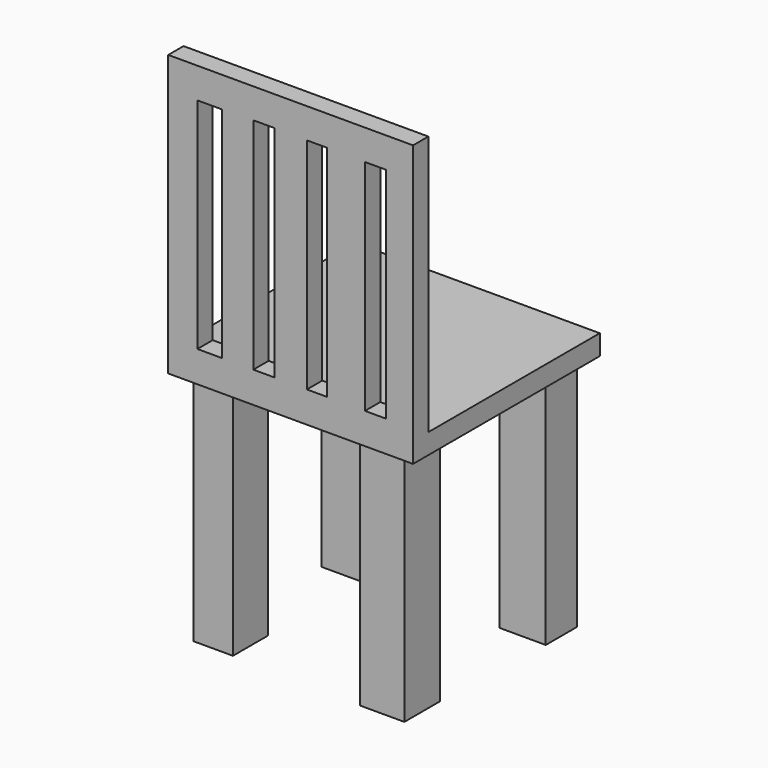
from build123d import *

# Parameters (mm, degrees)
F0_W      = 126.1496841908
F0_H      = 120.2754974365
F1_DEPTH  = 10.414
F2_W      = 20.2760398388
F2_H      = 22.6492062211
F3_DEPTH  = 122.174
F4_W      = 22.7675586939
F4_H      = 22.8002071381
F5_DEPTH  = 122.174
F6_W      = 23.7396918237
F6_H      = 20.0196914375
F7_DEPTH  = 122.174
F8_W      = 21.2444029748
F8_H      = 21.6576848179
F9_DEPTH  = 122.174
F10_W     = 126.1496841908
F10_H     = 9.857006371
F11_DEPTH = 134.112
F12_W     = 10.8794793487
F12_H     = 112.9197366536
F12_W_2   = 10.2443918586
F12_H_2   = 113.0264736712
F12_W_3   = 10.8346808702
F12_H_3   = 113.1561808288
F12_W_4   = 12.787386775
F12_H_4   = 112.809246406
F13_DEPTH = 25.4


with BuildPart() as f1:
    # F0 (on Top) → F1 (new body)
    with BuildSketch(Plane.XY):
        Rectangle(F0_W, F0_H)
    extrude(amount=F1_DEPTH)

    # F2 (on face) → F3 (join)
    with BuildSketch(Plane(origin=(0, 0, 0), x_dir=(1, 0, 0), z_dir=(0, 0, -1))):
        with Locations((-45.7890219986, 41.4139181376)):
            Rectangle(F2_W, F2_H)
    extrude(amount=F3_DEPTH)

    # F4 (on face) → F5 (join)
    with BuildSketch(Plane(origin=(0, 0, 0), x_dir=(1, 0, 0), z_dir=(0, 0, -1))):
        with Locations((42.81097278, 43.2243607938)):
            Rectangle(F4_W, F4_H)
    extrude(amount=F5_DEPTH)

    # F6 (on face) → F7 (join)
    with BuildSketch(Plane(origin=(0, 0, 0), x_dir=(1, 0, 0), z_dir=(0, 0, -1))):
        with Locations((44.8694061488, -43.2738680393)):
            Rectangle(F6_W, F6_H)
    extrude(amount=F7_DEPTH)

    # F8 (on face) → F9 (join)
    with BuildSketch(Plane(origin=(0, 0, 0), x_dir=(1, 0, 0), z_dir=(0, 0, -1))):
        with Locations((-45.5452147871, -40.8827578649)):
            Rectangle(F8_W, F8_H)
    extrude(amount=F9_DEPTH)

    # F10 (on face) → F11 (join)
    with BuildSketch(Plane.XY.offset(10.414)):
        with Locations((0, -55.2092455328)):
            Rectangle(F10_W, F10_H)
    extrude(amount=F11_DEPTH)

    # F12 (on face) → F13 (cut)
    with BuildSketch(Plane(origin=(0, -50.2807423472, 0), x_dir=(-1, 0, 0), z_dir=(0, 1, 0))):
        with Locations((-43.7446571887, 72.4568422884)):
            Rectangle(F12_W, F12_H)
        with Locations((-13.5027915239, 72.5102107972)):
            Rectangle(F12_W_2, F12_H_2)
        with Locations((13.8100152835, 72.575064376)):
            Rectangle(F12_W_3, F12_H_3)
        with Locations((41.6683144867, 72.4015971646)):
            Rectangle(F12_W_4, F12_H_4)
    extrude(amount=-F13_DEPTH, mode=Mode.SUBTRACT)


solid = f1.part
